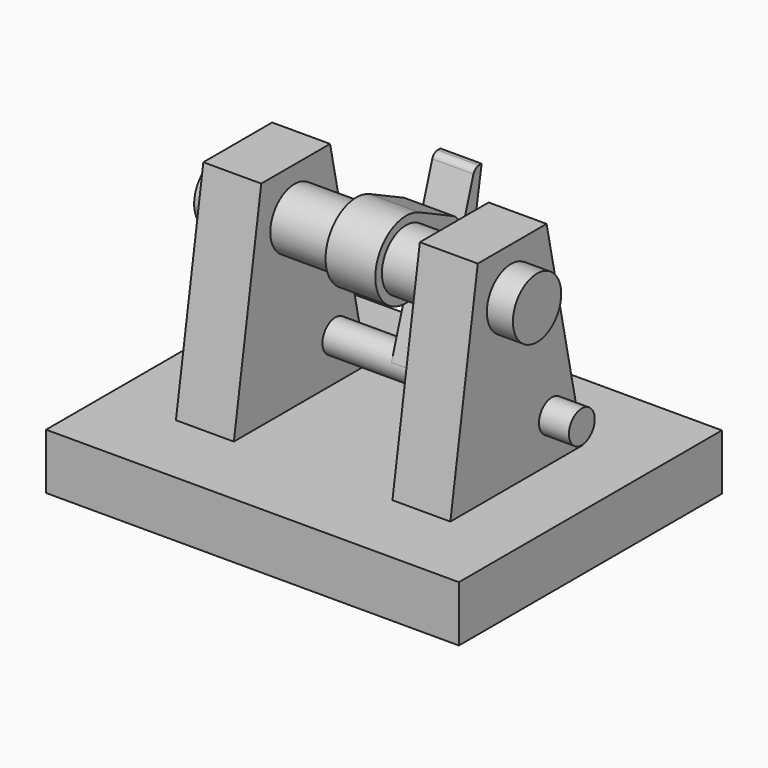
from build123d import *

# Parameters (mm, degrees)
F0_W           = 84.5754630864
F0_H           = 14.3479024991
F1_DEPTH       = 53.1
F3_START       = 20.4
F2_R           = 7.7705756534
F3_DEPTH       = 14.9
F5_DEPTH       = 42
F5_DEPTH_BACK  = 40
F6_R           = 7.7705756534
F7_DEPTH       = 8.3
F7_DEPTH_BACK  = 4.5
F8_R           = 4.1525675238
F9_DEPTH       = 43
F9_DEPTH_BACK  = 36.5
F12_DEPTH      = 7.8
F12_DEPTH_BACK = 2.8


with BuildPart() as f1:
    # F0 (on Right) → F1 (new body, symmetric)
    with BuildSketch(Plane.YZ):
        with Locations((3.2817516476, -7.1739512496)):
            Rectangle(F0_W, F0_H)
    extrude(amount=F1_DEPTH, both=True)

    # F2 (on Right) → F3 (join)
    with BuildSketch(Plane.YZ.offset(F3_START)):
        Polygon((-10.6891365722, 54.8502057791), (-19.5029862225, 0), (23.0660419911, 0), (11.4392554387, 54.8502057791), align=None)
        with Locations((0, 42.6608361304)):
            Circle(F2_R, mode=Mode.SUBTRACT)
    extrude(amount=F3_DEPTH)

    # F4: F1 across plane


with BuildPart() as f1_1:
    add(f1.part)
    add(f1.part.mirror(Plane.YZ))


with BuildPart() as f5:
    # F2 (on Right) → F5 (new body, two sides)
    with BuildSketch(Plane.YZ) as f5_sk:
        with Locations((0, 42.6608361304)):
            Circle(F2_R)
    extrude(amount=F5_DEPTH)
    extrude(f5_sk.sketch, amount=-F5_DEPTH_BACK)

    # F6 (on Right) → F7 (join, two sides)
    with BuildSketch(Plane.YZ) as f7_sk:
        with BuildLine():
            Line((15.1903728216, 46.3061307258), (4.3038249038, 51.5669740377))
            ThreePointArc((4.3038249038, 51.5669740377), (-9.8782327658, 42.1482752543), (5.202472379, 34.2479601434))
            Line((5.202472379, 34.2479601434), (15.4860743749, 40.6072783388))
            ThreePointArc((15.4860743749, 40.6072783388), (17.0246416631, 43.5442092451), (15.1903728216, 46.3061307258))
        make_face()
        with Locations((0, 42.6608361304)):
            Circle(F6_R, mode=Mode.SUBTRACT)
    extrude(amount=F7_DEPTH)
    extrude(f7_sk.sketch, amount=-F7_DEPTH_BACK)


with BuildPart() as f9:
    # F8 (on face) → F9 (new body, two sides)
    with BuildSketch(Plane.YZ) as f9_sk:
        with Locations((13.1401270628, 10.7224332169)):
            Circle(F8_R)
    extrude(amount=F9_DEPTH)
    extrude(f9_sk.sketch, amount=-F9_DEPTH_BACK)


with BuildPart() as f1_2:
    add(f1_1.part)

    # F10: cut F9
    add(f9.part, mode=Mode.SUBTRACT)


with BuildPart() as f9_1:
    add(f9.part)

    # F11 (on face) → F12 (join, two sides)
    with BuildSketch(Plane.YZ) as f12_sk:
        with BuildLine():
            Line((22.3057325511, 52.7694041005), (16.0210298515, 33.2353538817))
            Line((16.0210298515, 33.2353538817), (18.9094234847, 19.6091481849))
            Line((18.9094234847, 19.6091481849), (24.9317679843, 54.0543771534))
            Line((24.9317679843, 54.0543771534), (24.0689877174, 54.0543771534))
            ThreePointArc((24.0689877174, 54.0543771534), (22.9780907782, 53.6990525036), (22.3057325511, 52.7694041005))
        make_face()
        with BuildLine():
            ThreePointArc((9.1871122098, 11.9942392601), (13.7838101914, 14.8248092442), (17.2926945866, 10.7224332169))
            ThreePointArc((17.2926945866, 10.7224332169), (17.2771530738, 10.3635003213), (17.2306448678, 10.0072541299))
            Line((17.2306448678, 10.0072541299), (18.9094234847, 19.6091481849))
            Line((18.9094234847, 19.6091481849), (16.0210298515, 33.2353538817))
            Line((16.0210298515, 33.2353538817), (9.1871122098, 11.9942392601))
        make_face()
    extrude(amount=F12_DEPTH)
    extrude(f12_sk.sketch, amount=-F12_DEPTH_BACK)


solid = Compound([f5.part, f1_2.part, f9_1.part])
